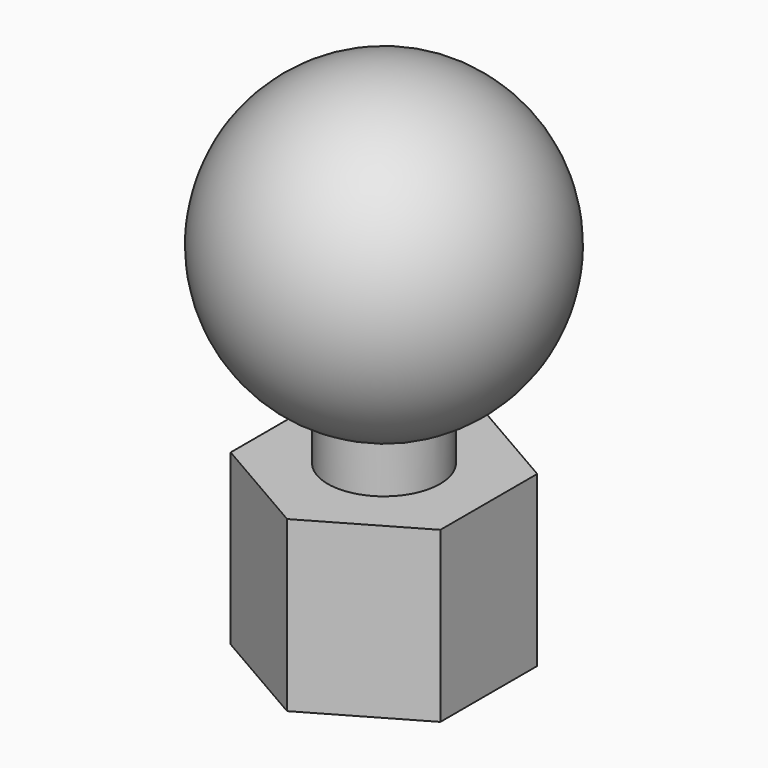
from build123d import *

# Parameters (mm, degrees)
F1_DEPTH = 22.352
F2_R     = 7.432134
F3_DEPTH = 25.4


with BuildPart() as f1:
    # F0 (on Top) → F1 (new body)
    with BuildSketch(Plane.XY):
        Polygon((13.858515, -8.001217), (13.858515, 8.001217), (0, 16.002435), (-13.858515, 8.001217), (-13.858515, -8.001217), (0, -16.002435), align=None)
    extrude(amount=F1_DEPTH)

    # F2 (on face) → F3 (join)
    with BuildSketch(Plane.XY.offset(22.352)):
        Circle(F2_R)
    extrude(amount=F3_DEPTH)

    # F4 (on face) → F5 (revolve)
    with BuildSketch(Plane.XY.offset(47.752)):
        with BuildLine():
            Line((7.432134, 0), (20.542542, 0))
            ThreePointArc((20.542542, 0), (0, 20.542542), (-20.542542, 0))
            Line((-20.542542, 0), (-7.432134, 0))
            ThreePointArc((-7.432134, 0), (0, 7.432134), (7.432134, 0))
        make_face()
        with BuildLine():
            Line((-7.432134, 0), (7.432134, 0))
            ThreePointArc((7.432134, 0), (0, 7.432134), (-7.432134, 0))
        make_face()
    revolve(axis=Axis((0, 0, 47.752), (-1, 0, 0)))


solid = f1.part
